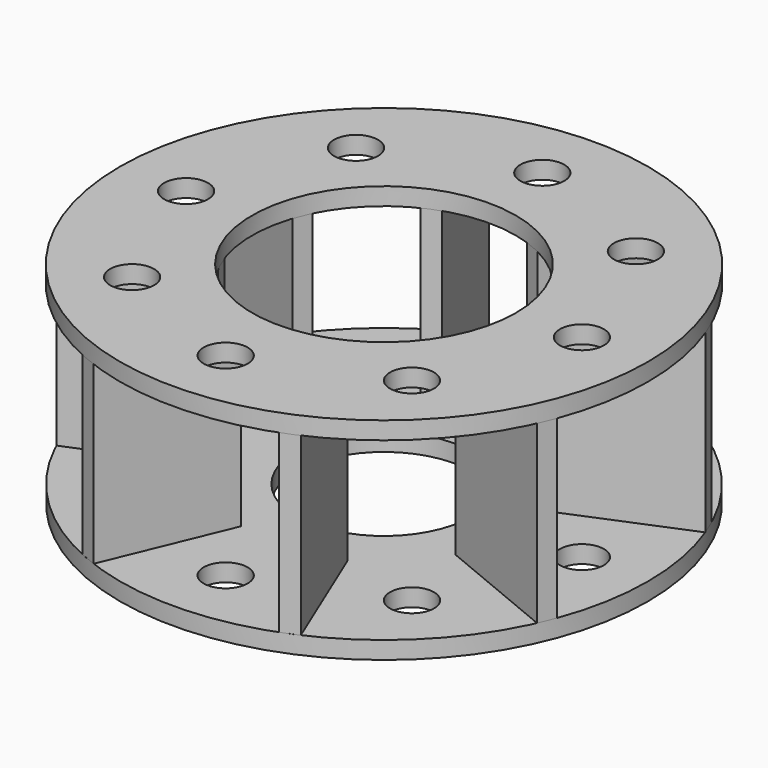
from build123d import *

# Parameters (mm, degrees)
F0_R        = 76.2
F0_R_2      = 25.4
F1_DEPTH    = 5.08
F3_R        = 76.2688688451
F3_R_2      = 38.1
F4_DEPTH    = 5.08
F5_R        = 6.35
F1_FACE_R   = 76.2
F1_FACE_R_2 = 25.4
F6_DEPTH    = 60.961
F7_R        = 6.35
F8_DEPTH    = 25.4
F10_DEPTH   = 50.8
F11_COUNT   = 8


with BuildPart() as f1:
    # F0 (on Top) → F1 (new body)
    with BuildSketch(Plane.XY):
        Circle(F0_R)
        Circle(F0_R_2, mode=Mode.SUBTRACT)
    extrude(amount=F1_DEPTH)


with BuildPart() as f4:
    # F3 (on offset) → F4 (new body)
    with BuildSketch(Plane.XY.offset(55.88)):
        Circle(F3_R)
        Circle(F3_R_2, mode=Mode.SUBTRACT)
    extrude(amount=F4_DEPTH)


with BuildPart() as f6_tool:
    # F5 (on face) + F1_face (on face) → F6 (new body, through all)
    with BuildSketch(Plane.XY.offset(60.96)):
        with Locations((57.15, 0)):
            Circle(F5_R)
        with Locations((40.4111525448, 40.4111525448)):
            Circle(F5_R)
        with Locations((0, 57.15)):
            Circle(F5_R)
        with Locations((-40.4111525448, 40.4111525448)):
            Circle(F5_R)
        with Locations((-57.15, 0)):
            Circle(F5_R)
        with Locations((-40.4111525448, -40.4111525448)):
            Circle(F5_R)
        with Locations((0, -57.15)):
            Circle(F5_R)
        with Locations((40.4111525448, -40.4111525448)):
            Circle(F5_R)
    with BuildSketch(Plane(origin=(0, 0, 0), x_dir=(1, 0, 0), z_dir=(0, 0, -1))):
        Circle(F1_FACE_R)
        Circle(F1_FACE_R_2, mode=Mode.SUBTRACT)
    extrude(amount=-F6_DEPTH, dir=(0, 0, 1))


with BuildPart() as f1_1:
    add(f1.part)

    # F6: cut by f6_tool
    add(f6_tool.part, mode=Mode.SUBTRACT)

    # F7 (on face) → F8 (cut)
    with BuildSketch(Plane.XY.offset(5.08)):
        with Locations((57.15, 0)):
            Circle(F7_R)
        with Locations((40.4111525448, 40.4111525448)):
            Circle(F7_R)
        with Locations((0, 57.15)):
            Circle(F7_R)
        with Locations((-40.4111525448, 40.4111525448)):
            Circle(F7_R)
        with Locations((-57.15, 0)):
            Circle(F7_R)
        with Locations((-40.4111525448, -40.4111525448)):
            Circle(F7_R)
        with Locations((0, -57.15)):
            Circle(F7_R)
        with Locations((40.4111525448, -40.4111525448)):
            Circle(F7_R)
    extrude(amount=-F8_DEPTH, mode=Mode.SUBTRACT)


with BuildPart() as f4_1:
    add(f4.part)

    # F6: cut by f6_tool
    add(f6_tool.part, mode=Mode.SUBTRACT)


with BuildPart() as f10:
    # F9 (on face) → F10 (new body, through all)
    with BuildSketch(Plane.XY.offset(5.08)):
        Polygon((16.9564483566, -34.2991477306), (14.6010512334, -35.2500559126), (12.2456541102, -36.2009640946), (26.7976187658, -71.3325145252), (31.4909267909, -69.3884826888), align=None)
    extrude(amount=F10_DEPTH)


with BuildPart() as f11_1:
    # F11: instance of F10
    add(f10.part.rotate(Axis((0, 0, 60.96), (0, 0, 1)), 1 * 360 / F11_COUNT))


with BuildPart() as f11_2:
    # F11: instance of F10
    add(f10.part.rotate(Axis((0, 0, 60.96), (0, 0, 1)), 2 * 360 / F11_COUNT))


with BuildPart() as f11_3:
    # F11: instance of F10
    add(f10.part.rotate(Axis((0, 0, 60.96), (0, 0, 1)), 3 * 360 / F11_COUNT))


with BuildPart() as f11_4:
    # F11: instance of F10
    add(f10.part.rotate(Axis((0, 0, 60.96), (0, 0, 1)), 4 * 360 / F11_COUNT))


with BuildPart() as f11_5:
    # F11: instance of F10
    add(f10.part.rotate(Axis((0, 0, 60.96), (0, 0, 1)), 5 * 360 / F11_COUNT))


with BuildPart() as f11_6:
    # F11: instance of F10
    add(f10.part.rotate(Axis((0, 0, 60.96), (0, 0, 1)), 6 * 360 / F11_COUNT))


with BuildPart() as f11_7:
    # F11: instance of F10
    add(f10.part.rotate(Axis((0, 0, 60.96), (0, 0, 1)), 7 * 360 / F11_COUNT))


solid = Compound([f1_1.part, f4_1.part, f10.part, f11_1.part, f11_2.part, f11_3.part, f11_4.part, f11_5.part, f11_6.part, f11_7.part])
